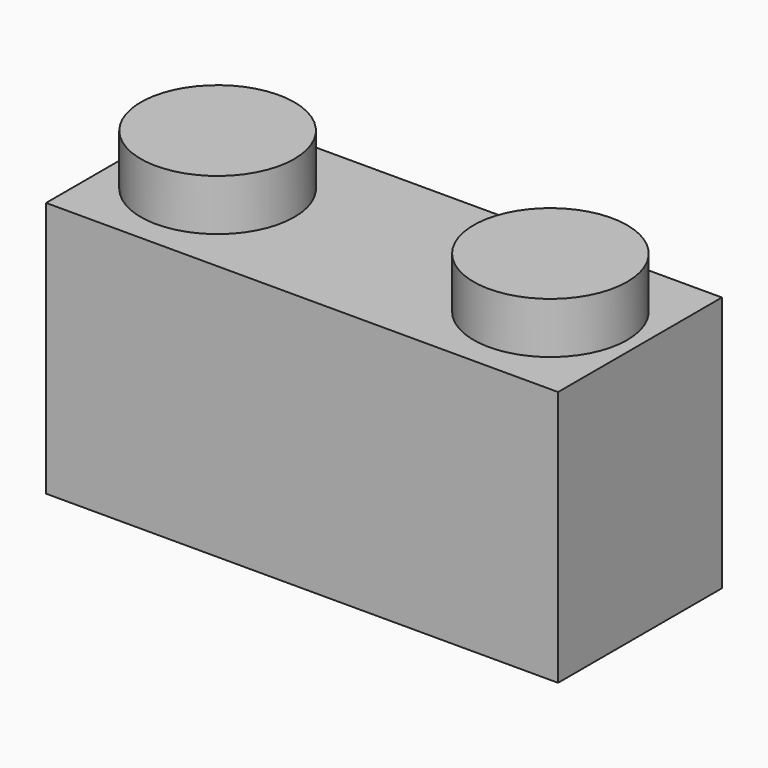
from build123d import *

# Parameters (mm, degrees)
F0_W     = 100
F0_H     = 50
F1_DEPTH = 40
F2_R     = 15
F3_DEPTH = 10
F4_R     = 15
F5_DEPTH = 30


with BuildPart() as f1:
    # F0 (on Front) → F1 (new body)
    with BuildSketch(Plane.XZ):
        Rectangle(F0_W, F0_H)
    extrude(amount=F1_DEPTH)

    # F2 (on face) → F3 (join)
    with BuildSketch(Plane.XY.offset(25)):
        with Locations((-32.5, -20)):
            Circle(F2_R)
        with Locations((32.5, -20)):
            Circle(F2_R)
    extrude(amount=F3_DEPTH)

    # F4 (on face) → F5 (cut)
    with BuildSketch(Plane(origin=(0, 0, -25), x_dir=(1, 0, 0), z_dir=(0, 0, -1))):
        with Locations((-32.5, 20)):
            Circle(F4_R)
        with Locations((32.5, 20)):
            Circle(F4_R)
    extrude(amount=-F5_DEPTH, mode=Mode.SUBTRACT)


solid = f1.part
